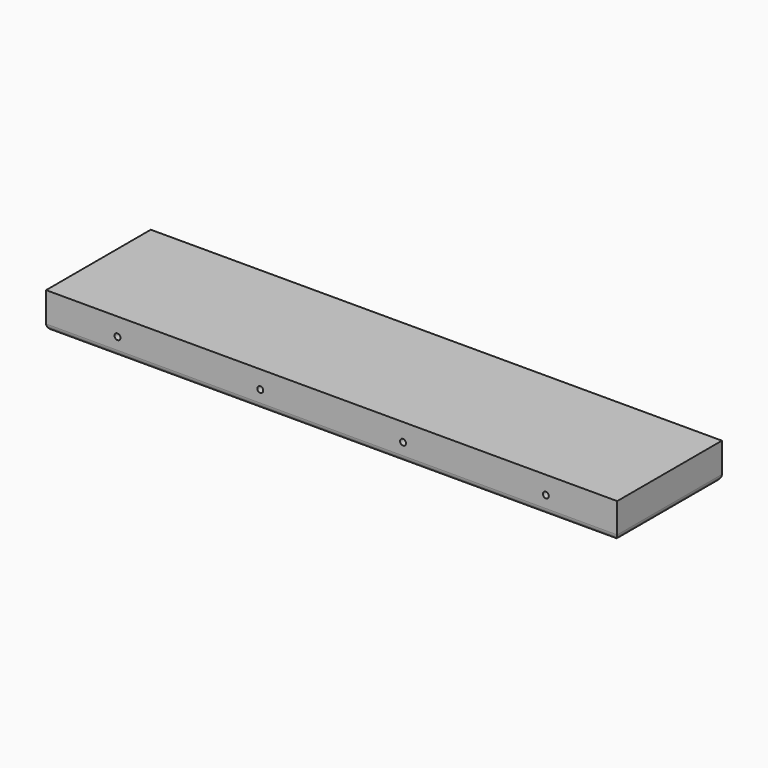
from build123d import *

# Parameters (mm, degrees)
F3_W     = 609.6
F3_H     = 139.7
F0_DEPTH = 38.1
F1_R     = 3.175
F4_DEPTH = 139.7
F2_R     = 6.35


with BuildPart() as f0:
    # F3 (on Top) → F0 (new body)
    with BuildSketch(Plane.XY):
        with Locations((71.379216, -69.85)):
            Rectangle(F3_W, F3_H)
    extrude(amount=F0_DEPTH)

    # F1 (on face) → F4 (cut)
    with BuildSketch(Plane.XZ.offset(139.7)):
        with Locations((-157.220784, 19.05)):
            Circle(F1_R)
        with Locations((-4.820784, 19.05)):
            Circle(F1_R)
        with Locations((147.579216, 19.05)):
            Circle(F1_R)
        with Locations((299.979216, 19.05)):
            Circle(F1_R)
    extrude(amount=-F4_DEPTH, mode=Mode.SUBTRACT)

    # F2
    f2_edges = [f0.edges().sort_by_distance(p)[0] for p in [
        (71.379216, -139.7, 0),
        (71.379216, 0, 0),
        (-233.420784, -69.85, 0),
        (376.179216, -69.85, 0),
    ]]
    fillet(f2_edges, radius=F2_R)


solid = f0.part
